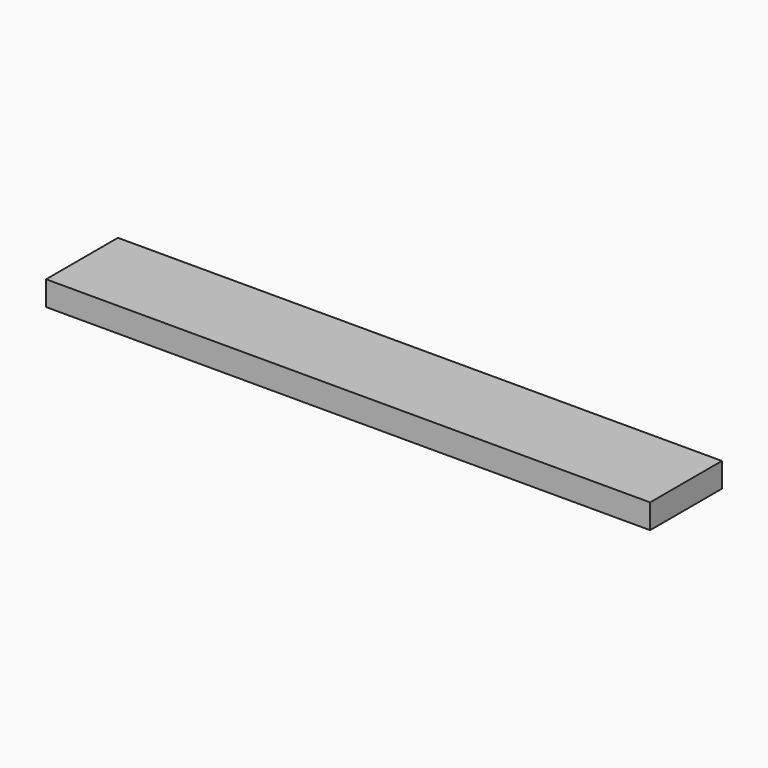
from build123d import *

# Parameters (mm, degrees)
SKETCH_W  = 740
SKETCH_H  = 110
PAD_DEPTH = 15


with BuildPart() as part:
    # Sketch → Pad (new body, symmetric)
    with BuildSketch(Plane.XY):
        Rectangle(SKETCH_W, SKETCH_H)
    extrude(amount=PAD_DEPTH, both=True)


solid = part.part
